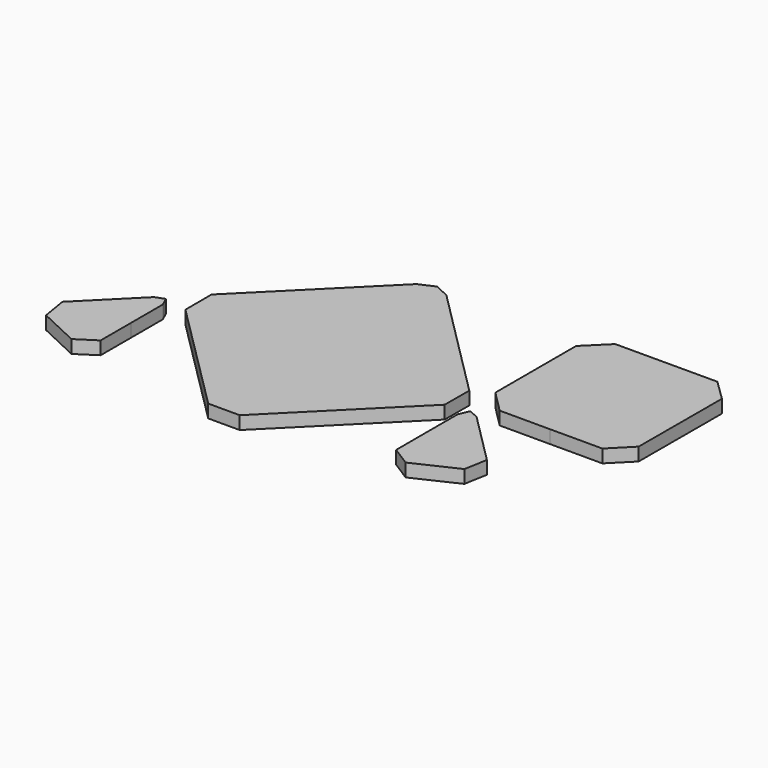
from build123d import *

# Parameters (mm, degrees)
F1_DEPTH = 4


with BuildPart() as f1:
    # F0 (on Top) → F1 (new body)
    with BuildSketch(Plane.XY):
        Polygon((-7.687041, 36.889738), (-12.156364, 38.982289), (-16.841349, 36.893872), (-51.651627, 2.143194), (-51.630268, -7.866186), (-17.057701, -42.35676), (-7.432104, -42.355726), (27.350269, -7.573353), (27.395055, 1.784904), (6.516398, 22.669073), align=None)
        Polygon((39.519724, -1.75941), (54.8566, -1.763544), (70.898343, -1.749764), (77.029235, 4.42936), (77.091246, 36.159723), (70.753649, 42.35676), (39.552108, 42.313008), (32.887915, 35.72254), (32.889982, 4.872743), align=None)
        Polygon((32.88447, -10.671183), (32.885159, -21.233846), (32.900318, -33.028475), (38.759047, -36.736431), (51.796666, -30.60106), (53.066529, -23.570654), (37.137096, -7.633987), (34.225301, -6.406844), (32.893427, -9.439561), align=None)
        Polygon((-57.499677, -32.910652), (-57.497265, -21.288623), (-57.502433, -9.13846), (-58.730265, -6.424069), (-61.524926, -7.462766), (-62.149867, -8.082194), (-77.091246, -23.024606), (-75.780387, -30.889415), (-63.372187, -36.720239), align=None)
    extrude(amount=F1_DEPTH)


solid = f1.part
